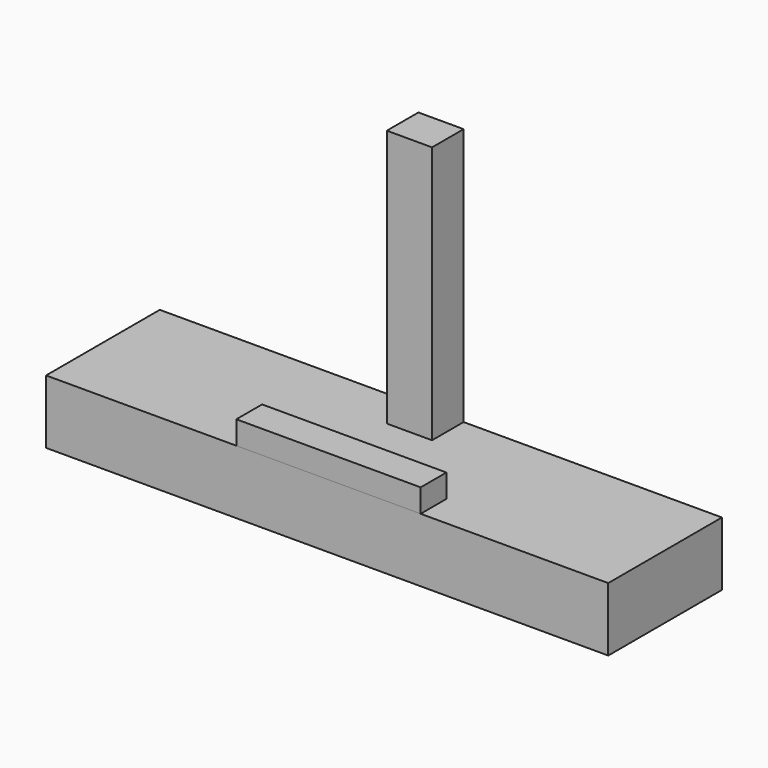
from build123d import *

# Parameters (mm, degrees)
F0_W     = 149.768152
F0_H     = 37.856524
F1_DEPTH = 17
F2_W     = 12.044117
F2_H     = 10.517036
F3_DEPTH = 68.7
F2_W_2   = 49.102947
F2_H_2   = 8.573649
F4_DEPTH = 6.2


with BuildPart() as f1:
    # F0 (on Top) → F1 (new body)
    with BuildSketch(Plane.XY):
        with Locations((-0.134293, 0.313039)):
            Rectangle(F0_W, F0_H)
    extrude(amount=F1_DEPTH)

    # F2 (on face) → F3 (join)
    with BuildSketch(Plane.XY.offset(17)):
        with Locations((-0.08639, 13.982783)):
            Rectangle(F2_W, F2_H)
    extrude(amount=F3_DEPTH)

    # F2 (on face) → F4 (join)
    with BuildSketch(Plane.XY.offset(17)):
        with Locations((0.222437, -14.328398)):
            Rectangle(F2_W_2, F2_H_2)
    extrude(amount=F4_DEPTH)


solid = f1.part
